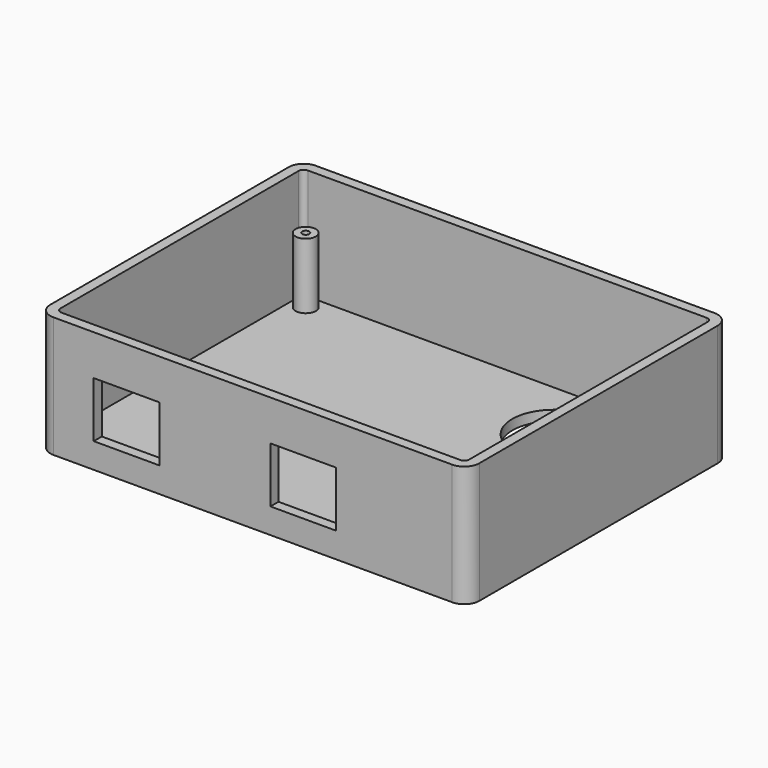
from build123d import *

# Parameters (mm, degrees)
F1_DEPTH = 24
F2_T     = -2
F3_R     = 8.25
F4_DEPTH = 2
F5_R     = 2
F5_R_2   = 0.7
F6_DEPTH = 13
F7_W     = 13
F7_H     = 11
F8_DEPTH = 2


with BuildPart() as f1:
    # F0 (on Top) → F1 (new body)
    with BuildSketch(Plane.XY):
        with BuildLine():
            ThreePointArc((42.5, 29.5), (41.6213203436, 31.6213203436), (39.5, 32.5))
            Line((39.5, 32.5), (-39.5, 32.5))
            ThreePointArc((-39.5, 32.5), (-41.6213203436, 31.6213203436), (-42.5, 29.5))
            Line((-42.5, 29.5), (-42.5, -29.5))
            ThreePointArc((-42.5, -29.5), (-41.6213203436, -31.6213203436), (-39.5, -32.5))
            Line((-39.5, -32.5), (39.5, -32.5))
            ThreePointArc((39.5, -32.5), (41.6213203436, -31.6213203436), (42.5, -29.5))
            Line((42.5, -29.5), (42.5, 29.5))
        make_face()
    extrude(amount=F1_DEPTH)

    # F2
    f2_openings = [f1.faces().sort_by_distance(p)[0] for p in [
        (0, 0, 24),
    ]]
    offset(amount=F2_T, openings=f2_openings)

    # F3 (on face) → F4 (cut, through all)
    with BuildSketch(Plane.XY.offset(2)):
        with Locations((19.05, 18.25)):
            Circle(F3_R)
    extrude(amount=-F4_DEPTH, mode=Mode.SUBTRACT)

    # F5 (on face) → F6 (join)
    with BuildSketch(Plane.XY.offset(2)):
        with Locations((-37.5, 27.5)):
            Circle(F5_R)
        with Locations((-37.5, 27.5)):
            Circle(F5_R_2, mode=Mode.SUBTRACT)
        with Locations((37.5, 27.5)):
            Circle(F5_R)
        with Locations((37.5, 27.5)):
            Circle(F5_R_2, mode=Mode.SUBTRACT)
        with Locations((37.5, -27.5)):
            Circle(F5_R)
        with Locations((37.5, -27.5)):
            Circle(F5_R_2, mode=Mode.SUBTRACT)
        with Locations((-37.5, -27.5)):
            Circle(F5_R)
        with Locations((-37.5, -27.5)):
            Circle(F5_R_2, mode=Mode.SUBTRACT)
    extrude(amount=F6_DEPTH)

    # F7 (on face) → F8 (cut, through all)
    with BuildSketch(Plane.XZ.offset(32.5)):
        with Locations((10, 10.5)):
            Rectangle(F7_W, F7_H)
        with Locations((-25, 10.5)):
            Rectangle(F7_W, F7_H)
    extrude(amount=-F8_DEPTH, mode=Mode.SUBTRACT)


solid = f1.part
